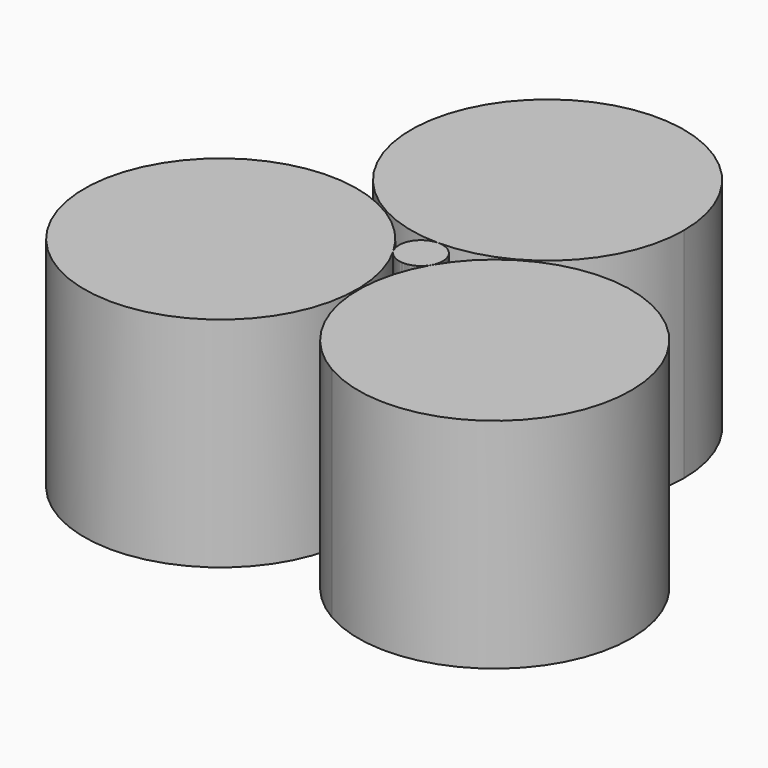
from build123d import *

# Parameters (mm, degrees)
F1_DEPTH = 25.4
F2_DEPTH = 25.4
F3_COUNT = 3


with BuildPart() as f1:
    # F0 (on Top) → F1 (new body)
    with BuildSketch(Plane.XY):
        with BuildLine():
            ThreePointArc((15.875, 18.415), (-11.22532, 29.64032), (0, 2.54))
            ThreePointArc((0, 2.54), (11.22532, 7.18968), (15.875, 18.415))
        make_face()
    extrude(amount=F1_DEPTH)

    # F0 (on Top) → F2 (join)
    with BuildSketch(Plane.XY):
        with BuildLine():
            ThreePointArc((0, 2.54), (-1.796051, -1.796051), (2.54, 0))
            ThreePointArc((2.54, 0), (1.796051, 1.796051), (0, 2.54))
        make_face()
        with BuildLine():
            ThreePointArc((15.875, 18.415), (-11.22532, 29.64032), (0, 2.54))
            ThreePointArc((0, 2.54), (11.22532, 7.18968), (15.875, 18.415))
        make_face()
    extrude(amount=F2_DEPTH)


with BuildPart() as f3_1:
    # F3: instance of F1
    add(f1.part.rotate(Axis((0, 0, 0), (0, 0, -1)), 1 * 360 / F3_COUNT))


with BuildPart() as f3_2:
    # F3: instance of F1
    add(f1.part.rotate(Axis((0, 0, 0), (0, 0, -1)), 2 * 360 / F3_COUNT))


solid = Compound([f1.part, f3_1.part, f3_2.part])
